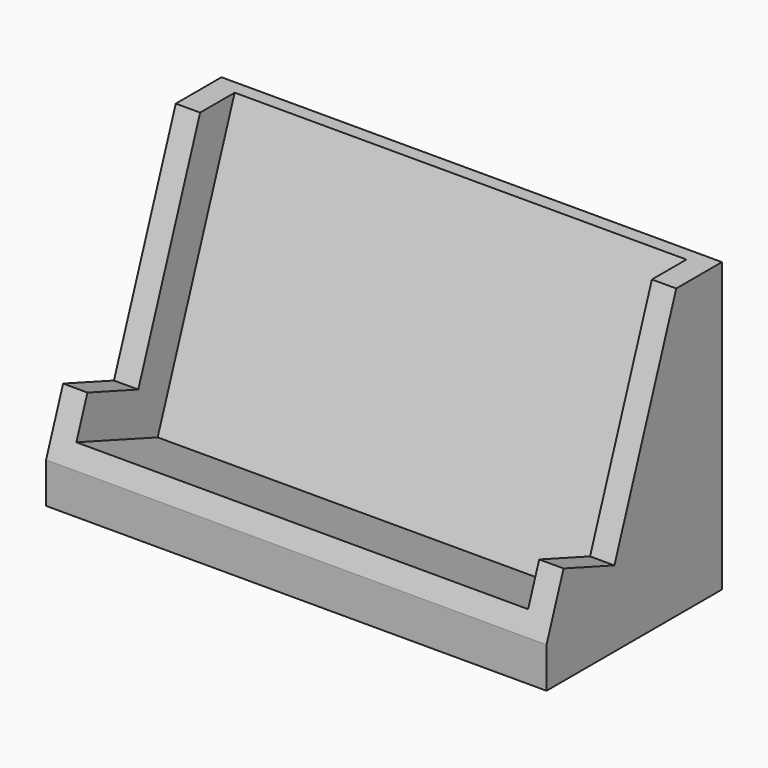
from build123d import *

# Parameters (mm, degrees)
F0_W      = 40
F0_H      = 112.7631144943
F1_DEPTH  = 92.5
F2_W      = 167
F2_H      = 104
F3_DEPTH  = 40
F4_W      = 19.1075097164
F4_H      = 21.1983466993
F5_DEPTH  = 200
F7_DEPTH  = 200
F9_DEPTH  = 80
F10_DEPTH = 5


with BuildPart() as f1:
    # F0 (on Right) → F1 (new body, symmetric)
    with BuildSketch(Plane.YZ):
        Polygon((41.0424171991, 112.7631144943), (0, 0), (41.0424171991, 0), align=None)
        Polygon((41.0424171991, 0), (0, 0), (0, -15), (81.0424171991, -15), (81.0424171991, 0), align=None)
        with Locations((61.0424171991, 56.3815572472)):
            Rectangle(F0_W, F0_H)
    extrude(amount=F1_DEPTH, both=True)

    # F2 (on face) → F3 (cut)
    with BuildSketch(Plane(origin=(0, 0, 0), x_dir=(1, 0, 0), z_dir=(0, -0.9396926208, 0.3420201433))):
        with Locations((0, 60)):
            Rectangle(F2_W, F2_H)
    extrude(amount=-F3_DEPTH, mode=Mode.SUBTRACT)

    # F4 (on face) → F5 (cut)
    with BuildSketch(Plane.YZ.offset(92.5)):
        with Locations((90.5961720573, 102.1639411447)):
            Rectangle(F4_W, F4_H)
        Polygon((81.0424171991, 91.564767795), (81.0424171991, 112.7631144943), (41.0424171991, 112.7631144943), (33.3268499849, 91.564767795), align=None)
        Polygon((33.3268499849, 91.564767795), (41.0424171991, 112.7631144943), (33.0099269154, 112.7631144943), (33.0099269154, 91.564767795), align=None)
    extrude(amount=-F5_DEPTH, mode=Mode.SUBTRACT)

    # F6 (on face) → F7 (cut)
    with BuildSketch(Plane.YZ.offset(92.5)):
        Polygon((33.3268499849, 91.564767795), (7.8664632965, 21.6129302781), (31.3587788161, 13.0624266949), (59.9312942968, 91.564767795), align=None)
    extrude(amount=-F7_DEPTH, mode=Mode.SUBTRACT)

    # F8 (on Right) → F9 (cut, symmetric)
    with BuildSketch(Plane.YZ):
        Polygon((81.0424171991, -15), (81.0424171991, 91.564767795), (42.2560137002, -15), align=None)
    extrude(amount=F9_DEPTH, both=True, mode=Mode.SUBTRACT)

    # F8 (on Right) → F10 (join, symmetric)
    with BuildSketch(Plane.YZ):
        Polygon((81.0424171991, -15), (81.0424171991, 91.564767795), (42.2560137002, -15), align=None)
    extrude(amount=F10_DEPTH, both=True)


solid = f1.part
